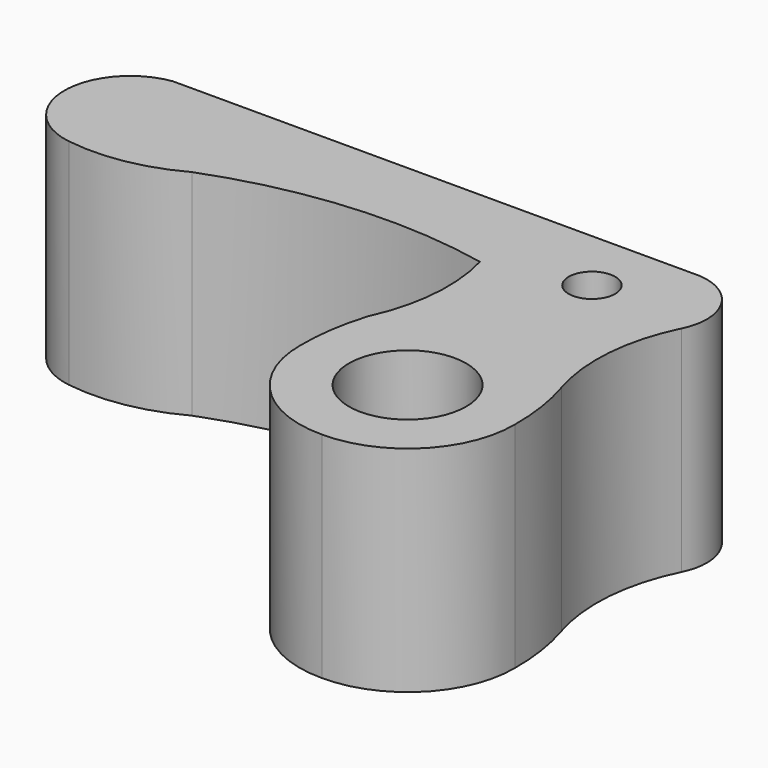
from build123d import *

# Parameters (mm, degrees)
F0_R     = 4.1
F0_R_2   = 1.625
F1_DEPTH = 15


with BuildPart() as f1:
    # F0 (on Top) → F1 (new body)
    with BuildSketch(Plane.XY):
        with BuildLine():
            Line((19.449329, 20.047105), (-17.462153, 20.047105))
            ThreePointArc((-17.462153, 20.047105), (-21.400342, 15.5), (-17.462153, 10.952895))
            ThreePointArc((-17.462153, 10.952895), (-13.583628, 11.018037), (-9.926019, 12.30997))
            ThreePointArc((-9.926019, 12.30997), (-0.583426, 14.431472), (8.979468, 13.851907))
            ThreePointArc((8.979468, 13.851907), (9.394135, 9.361936), (8.242019, 5.002531))
            ThreePointArc((8.242019, 5.002531), (7.672541, 2.530704), (7.5, 0))
            ThreePointArc((7.5, 0), (9.673183, -5.326817), (15, -7.5))
            ThreePointArc((15, -7.5), (20.326817, -5.326817), (22.5, 0))
            ThreePointArc((22.5, 0), (22.327459, 2.530704), (21.757981, 5.002531))
            ThreePointArc((21.757981, 5.002531), (21.215093, 9.858766), (22.510411, 14.570442))
            ThreePointArc((22.510411, 14.570442), (22.434346, 18.121727), (19.449329, 20.047105))
        make_face()
        with Locations((15, 0)):
            Circle(F0_R, mode=Mode.SUBTRACT)
        with Locations((15.5, 15.5)):
            Circle(F0_R_2, mode=Mode.SUBTRACT)
    extrude(amount=F1_DEPTH)


solid = f1.part
